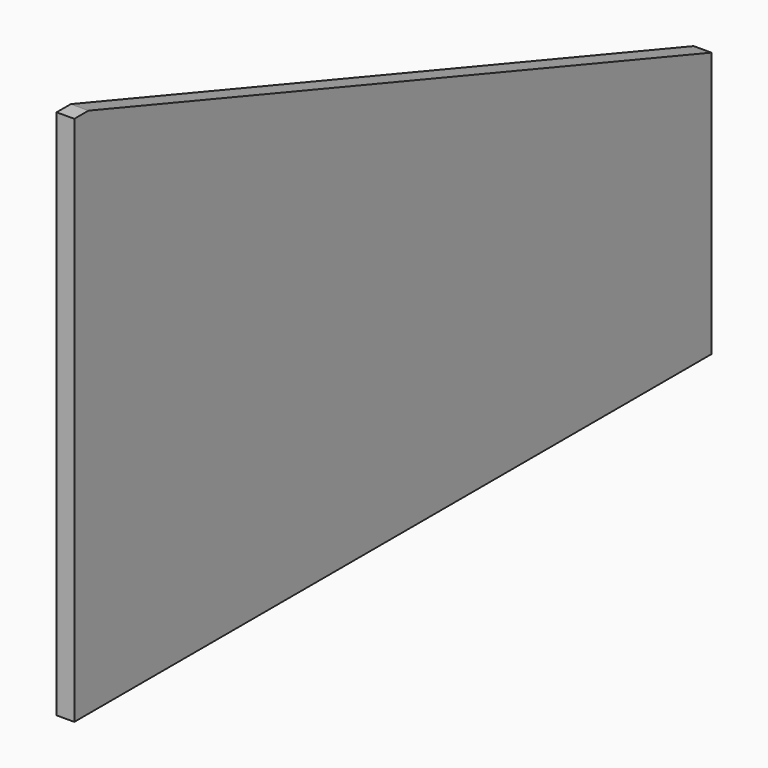
from build123d import *

# Parameters (mm, degrees)
F0_W     = 10
F0_H     = 300
F0_W_2   = 188.557307
F0_H_2   = 150
F1_DEPTH = 10


with BuildPart() as f1:
    # F0 (on Right) → F1 (new body)
    with BuildSketch(Plane.YZ):
        with Locations((-138.908036, 150)):
            Rectangle(F0_W, F0_H)
        Polygon((-133.908036, 300), (-133.908036, 0), (117.534657, 0), (117.534657, 150), (306.091964, 150), align=None)
        with Locations((211.81331, 75)):
            Rectangle(F0_W_2, F0_H_2)
    extrude(amount=F1_DEPTH)


solid = f1.part
